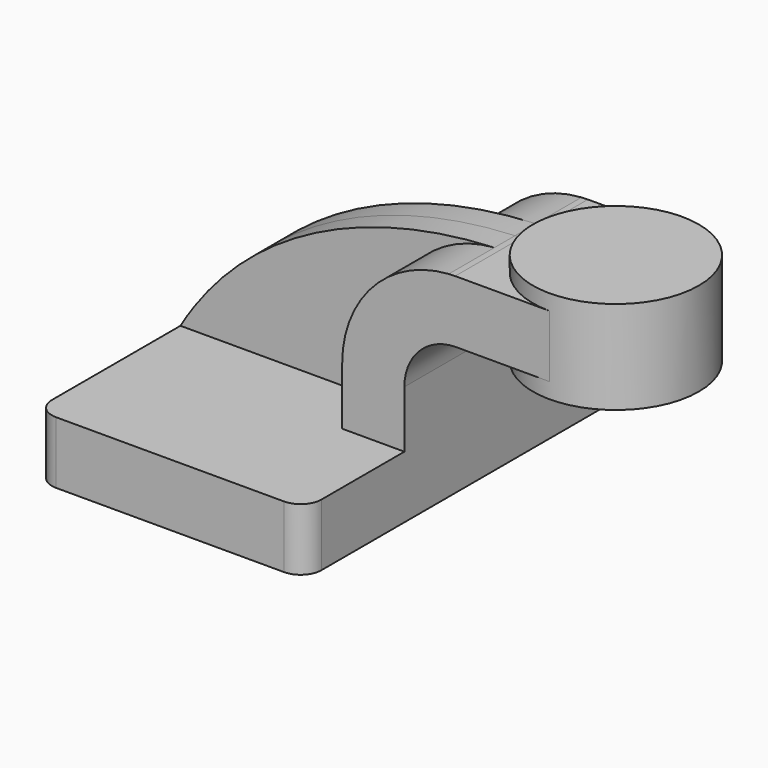
from build123d import *

# Parameters (mm, degrees)
F1_DEPTH = 63.5
F0_W     = 25.4
F0_H     = 19.05
F2_DEPTH = 25.4
F3_DEPTH = 7.9375
F5_R     = 6.35


with BuildPart() as f1:
    # F0 (on Front) → F1 (new body, symmetric)
    with BuildSketch(Plane.XZ):
        Polygon((22.225, 9.525), (-41.275, 9.525), (-41.275, -9.525), (41.275, -9.525), (41.275, 9.525), align=None)
    extrude(amount=F1_DEPTH, both=True)

    # F0 (on Front) → F2 (join, symmetric)
    with BuildSketch(Plane.XZ):
        with Locations((73.025, 52.4002)):
            Rectangle(F0_W, F0_H)
        with BuildLine():
            Line((22.225, 27.0015947561), (22.225, 9.525))
            Line((22.225, 9.525), (41.275, 9.525))
            Line((41.275, 9.525), (41.275, 27.0015947561))
            ThreePointArc((41.275, 27.0015947561), (45.8505258857, 38.1522678183), (56.9395681561, 42.8752))
            Line((56.9395681561, 42.8752), (60.325, 42.8752))
            Line((60.325, 42.8752), (60.325, 61.9252))
            Line((60.325, 61.9252), (56.837875396, 61.9252))
            add(Edge.make_bspline(
                [(56.837875396, 61.9252), (56.1791036385, 61.904913743), (55.5200497896, 61.880354768), (54.8608113135, 61.8514905975)],
                knots=[0, 0, 0, 0, 1.9281744769, 1.9281744769, 1.9281744769, 1.9281744769], degree=3))
            ThreePointArc((54.8608113135, 61.8514905975), (31.6577900146, 50.8742329652), (22.225, 27.0015947561))
        make_face()
    extrude(amount=F2_DEPTH, both=True)

    # F0 (on Front) → F3 (join, symmetric)
    with BuildSketch(Plane.XZ):
        with BuildLine():
            add(Edge.make_bspline(
                [(54.8608113135, 61.8514905975), (17.4910659658, 60.2152895251), (-20.4719474509, 44.745078984), (-41.275, 9.525)],
                knots=[1.9281744769, 1.9281744769, 1.9281744769, 1.9281744769, 111.2291206407, 111.2291206407, 111.2291206407, 111.2291206407], degree=3))
            Line((-41.275, 9.525), (22.225, 9.525))
            Line((22.225, 9.525), (22.225, 27.0015947561))
            ThreePointArc((22.225, 27.0015947561), (31.6577900146, 50.8742329652), (54.8608113135, 61.8514905975))
        make_face()
    extrude(amount=F3_DEPTH, both=True)

    # F0 (on Front) → F4 (revolve)
    with BuildSketch(Plane.XZ):
        Polygon((85.725, 66.675), (85.725, 61.9252), (85.725, 42.8752), (85.725, 38.1), (111.125, 38.1), (111.125, 66.675), align=None)
    revolve(axis=Axis((85.725, 0, 51.1358389631), (0, 0, -1)))

    # F5
    f5_edges = [f1.edges().sort_by_distance(p)[0] for p in [
        (41.275, -63.5, 0),
        (-41.275, -63.5, 0),
        (-41.275, 63.5, 0),
        (41.275, 63.5, 0),
    ]]
    fillet(f5_edges, radius=F5_R)


solid = f1.part
